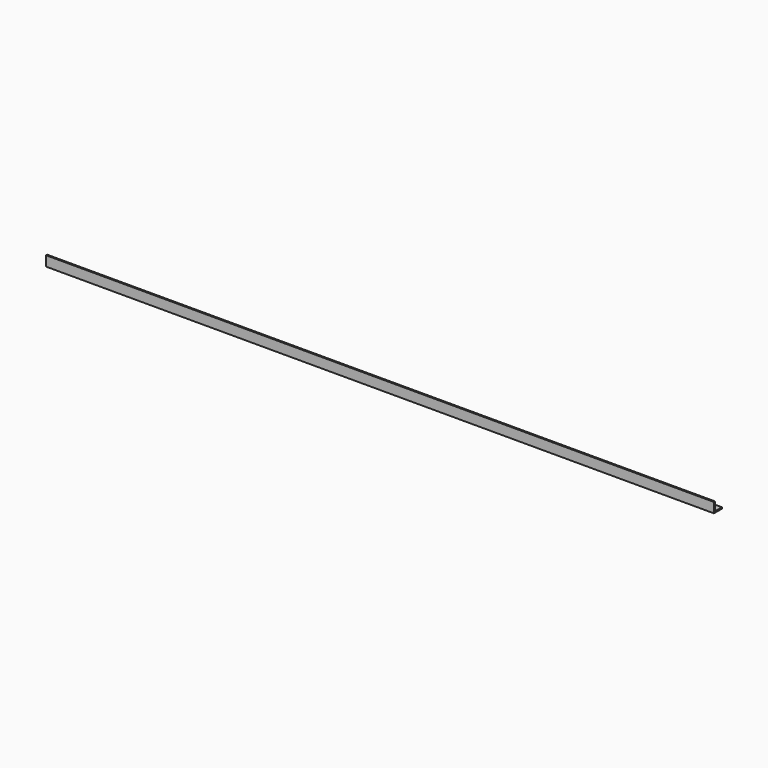
from build123d import *

# Parameters (mm, degrees)
SKETCH_W     = 1000
SKETCH_H     = 15
PAD_DEPTH    = 15
SKETCH001_W  = 1000
SKETCH001_H  = 13
POCKET_DEPTH = 13


with BuildPart() as part:
    # Sketch → Pad (new body)
    with BuildSketch(Plane.XY):
        Rectangle(SKETCH_W, SKETCH_H)
    extrude(amount=PAD_DEPTH)

    # Sketch001 → Pocket (cut)
    with BuildSketch(Plane.XY.offset(15)):
        with Locations((0, 1)):
            Rectangle(SKETCH001_W, SKETCH001_H)
    extrude(amount=-POCKET_DEPTH, mode=Mode.SUBTRACT)


solid = part.part
